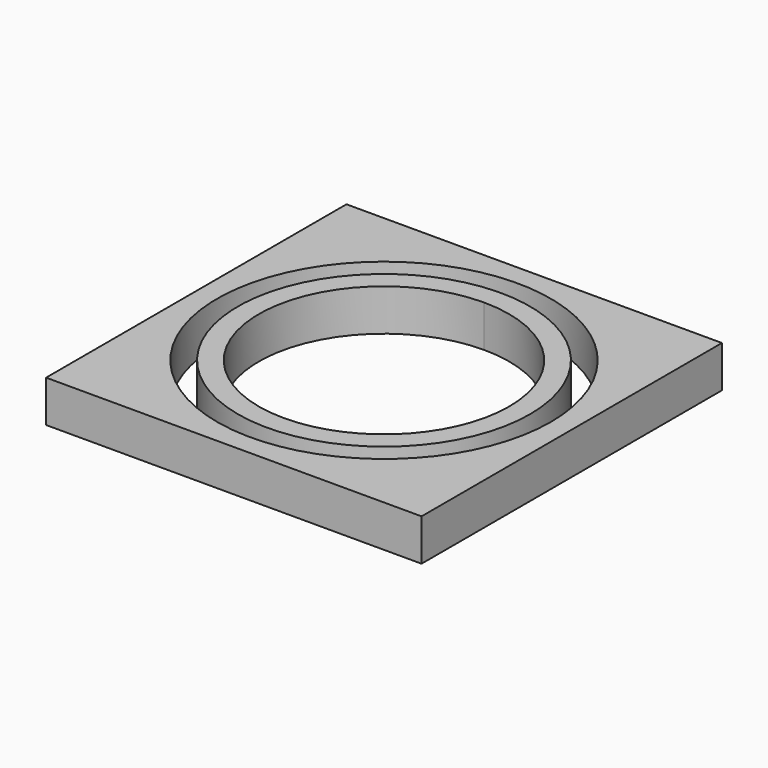
from build123d import *

# Parameters (mm, degrees)
F0_W     = 228.6
F0_H     = 228.6
F0_R     = 101.6
F0_R_2   = 88.9
F1_DEPTH = 25.4


with BuildPart() as f1:
    # F0 (on Top) → F1 (new body)
    with BuildSketch(Plane.XY):
        with Locations((9.544129, 52.346694)):
            Rectangle(F0_W, F0_H)
        with Locations((9.544129, 52.346694)):
            Circle(F0_R, mode=Mode.SUBTRACT)
        with Locations((9.544129, 52.346694)):
            Circle(F0_R_2)
        with BuildLine():
            ThreePointArc((9.544129, 128.546694), (63.425666, 106.228231), (85.744129, 52.346694))
            ThreePointArc((85.744129, 52.346694), (63.425666, -1.534843), (9.544129, -23.853306))
            ThreePointArc((9.544129, -23.853306), (-66.655871, 52.346694), (9.544129, 128.546694))
        make_face(mode=Mode.SUBTRACT)
    extrude(amount=F1_DEPTH)


solid = f1.part
